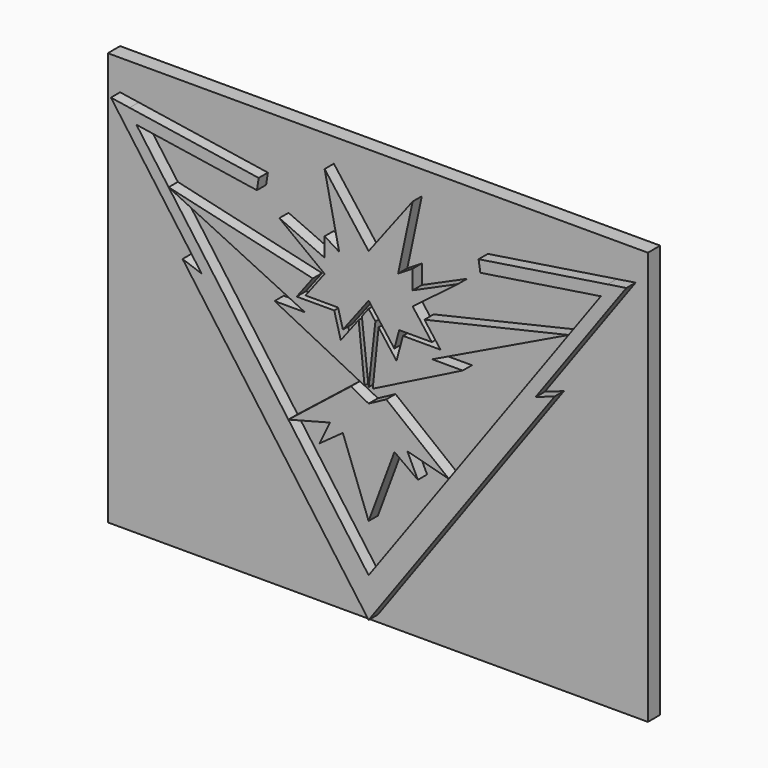
from build123d import *

# Parameters (mm, degrees)
F1_DEPTH = 7
F2_W     = 140.514702
F2_H     = 107.470594
F3_DEPTH = 4


with BuildPart() as f1:
    # F0 (on Front) → F1 (new body)
    with BuildSketch(Plane.XZ):
        Polygon((11.450743, 47.552806), (0, 32.469437), (-11.450743, 47.552806), (-7.673067, 29.826791), (-11.450743, 32.151514), (-11.450743, 27.211477), (-23.226581, 32.469437), (-11.450743, 23.529651), (-16.429459, 16.97149), (-7.952035, 16.97149), (-6.697043, 12.32101), (0, 21.142619), (6.697043, 12.32101), (7.952035, 16.97149), (16.429459, 16.97149), (11.450743, 23.529651), (23.226581, 32.469437), (11.450743, 27.211477), (11.450743, 32.151514), (7.673067, 29.826791), align=None)
        Polygon((-14.523507, 21.490428), (-52.03362, 30.179532), (-16.562748, 13.075261), (-24.474209, 13.075261), (-1.066759, 1.303802), (-2.592341, 15.85256), (-7.250141, 9.708765), (-8.938904, 15.966622), (-16.942418, 15.966622), (-18.716979, 15.966622), align=None)
        Polygon((-0.57651, 6.416567), (0, 1.303802), (1.763743, 16.945508), (0, 19.271945), (-1.763743, 16.945508), align=None)
        Polygon((16.562748, 13.075261), (52.03362, 30.179532), (14.523507, 21.490428), (18.716979, 15.966622), (16.942418, 15.966622), (8.938904, 15.966622), (7.250141, 9.708765), (2.592341, 15.85256), (1.066759, 1.303802), (24.474209, 13.075261), align=None)
        Polygon((-52.03362, 30.179532), (-60.419649, 41.776342), (-29.065546, 36.960713), (-28.610121, 39.925943), (-62.196185, 45.084376), (-67.053468, 45.830398), (-66.291245, 44.776342), (-60.419649, 36.656671), (-43.440623, 13.176839), (-48.408747, 14.927452), (0, -52.015685), (48.408747, 14.927452), (43.440623, 13.176839), (60.419649, 36.656671), (66.291245, 44.776342), (67.053468, 45.830398), (62.196185, 45.084376), (28.610121, 39.925943), (29.065546, 36.960713), (60.419649, 41.776342), (52.03362, 30.179532), (20.87444, -12.909649), (0, -41.776342), (-20.87444, -12.909649), align=None)
        Polygon((-4.59275, 0), (-20.87444, -12.909649), (-10.073935, -10.073934), (-12.809671, -15.75585), (-6.711045, -11.345737), (0, -29.355228), (6.711045, -11.345737), (12.809671, -15.75585), (10.073935, -10.073934), (20.87444, -12.909649), (4.59275, 0), (0, -2.453661), align=None)
    extrude(amount=F1_DEPTH)


with BuildPart() as f3:
    # F2 (on Front) → F3 (new body)
    with BuildSketch(Plane.XZ):
        Rectangle(F2_W, F2_H)
    extrude(amount=F3_DEPTH)


solid = Compound([f1.part, f3.part])
